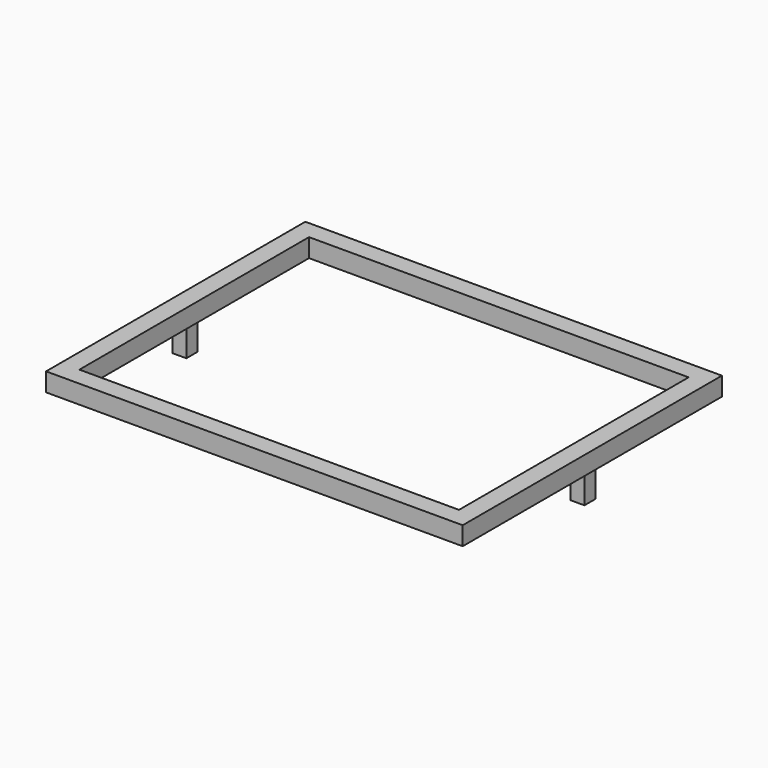
from build123d import *

# Parameters (mm, degrees)
F0_W     = 450
F0_H     = 350
F0_W_2   = 410
F0_H_2   = 310
F1_DEPTH = 20
F2_W     = 15
F2_H     = 15
F3_DEPTH = 30


with BuildPart() as f1:
    # F0 (on Top) → F1 (new body)
    with BuildSketch(Plane.XY):
        Rectangle(F0_W, F0_H)
        Rectangle(F0_W_2, F0_H_2, mode=Mode.SUBTRACT)
    extrude(amount=F1_DEPTH)

    # F2 (on face) → F3 (join)
    with BuildSketch(Plane(origin=(0, 0, 0), x_dir=(1, 0, 0), z_dir=(0, 0, -1))):
        with Locations((-215, 0)):
            Rectangle(F2_W, F2_H)
        with Locations((215, 0)):
            Rectangle(F2_W, F2_H)
    extrude(amount=F3_DEPTH)


solid = f1.part
